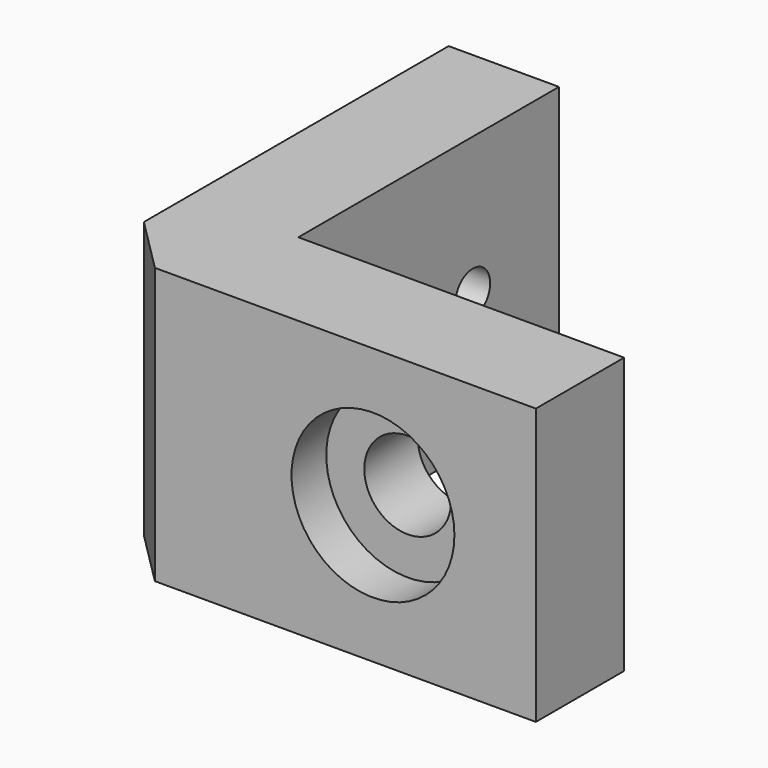
from build123d import *

# Parameters (mm, degrees)
F1_DEPTH       = 12.7
F3_D           = 4
F3_DEPTH       = 12.7
F3_CBORE_D     = 7.5
F3_CBORE_DEPTH = 2
F4_SIZE        = 2.54
F6_D           = 2


with BuildPart() as f1:
    # F0 (on Top) → F1 (new body)
    with BuildSketch(Plane.XY):
        Polygon((10.949644, 17.412821), (5.869644, 17.412821), (5.869644, -2.667179), (25.949644, -2.667179), (25.949644, 2.412821), (10.949644, 2.412821), align=None)
    extrude(amount=F1_DEPTH)

    # F3
    with Locations(Plane.XZ.offset(2.667179)):
        with Locations((18.449644, 6.35)):
            CounterBoreHole(F3_D / 2, F3_CBORE_D / 2, F3_CBORE_DEPTH, depth=F3_DEPTH)

    # F4
    f4_edges = [f1.edges().sort_by_distance(p)[0] for p in [
        (5.869644, -2.667179, 6.35),
    ]]
    chamfer(f4_edges, length=F4_SIZE)

    # F6 (through all)
    with Locations(Plane(origin=(5.869644, 0, 0), x_dir=(0, -1, 0), z_dir=(-1, 0, 0))):
        with Locations((-7.372821, 6.35), (-12.452821, 6.35)):
            Hole(F6_D / 2)


solid = f1.part
